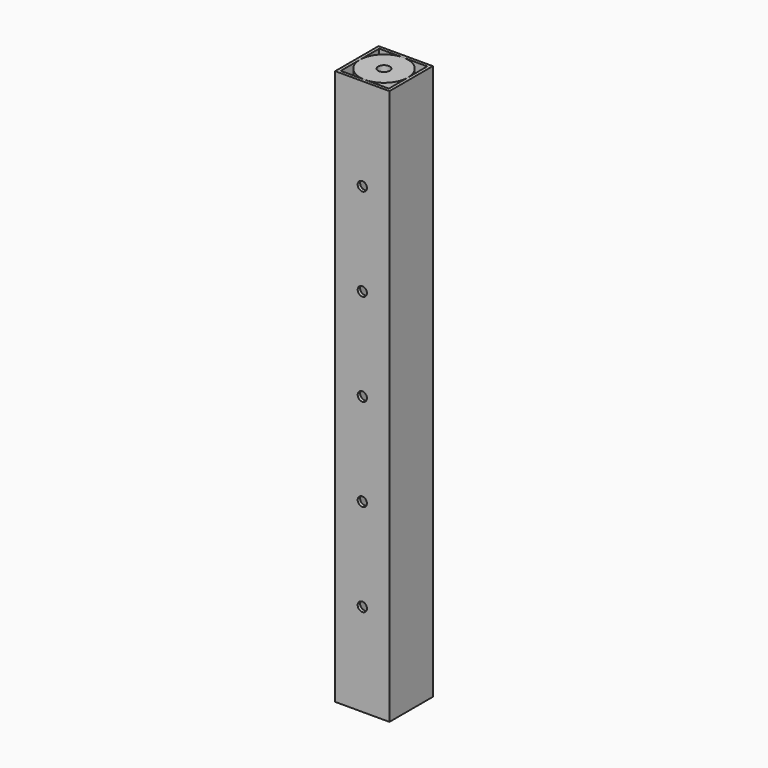
from build123d import *

# Parameters (mm, degrees)
F0_W     = 22.3266
F0_H     = 22.3266
F0_W_2   = 19.7866
F0_H_2   = 19.7866
F1_DEPTH = 228.6
F2_R     = 1.905
F3_DEPTH = 22.3276
F4_R     = 9.8933
F4_R_2   = 2.3876
F5_DEPTH = 5.08


with BuildPart() as f1:
    # F0 (on Top) → F1 (new body)
    with BuildSketch(Plane.XY):
        Rectangle(F0_W, F0_H)
        Rectangle(F0_W_2, F0_H_2, mode=Mode.SUBTRACT)
    extrude(amount=F1_DEPTH)

    # F2 (on face) → F3 (cut, through all)
    with BuildSketch(Plane.XZ.offset(11.1633)):
        with Locations((0, 38.1)):
            Circle(F2_R)
        with Locations((0, 76.2)):
            Circle(F2_R)
        with Locations((0, 114.3)):
            Circle(F2_R)
        with Locations((0, 152.4)):
            Circle(F2_R)
        with Locations((0, 190.5)):
            Circle(F2_R)
    extrude(amount=-F3_DEPTH, mode=Mode.SUBTRACT)

    # F4 (on face) → F5 (join)
    with BuildSketch(Plane.XY.offset(228.6)):
        Circle(F4_R)
        Circle(F4_R_2, mode=Mode.SUBTRACT)
    extrude(amount=-F5_DEPTH)


solid = f1.part
